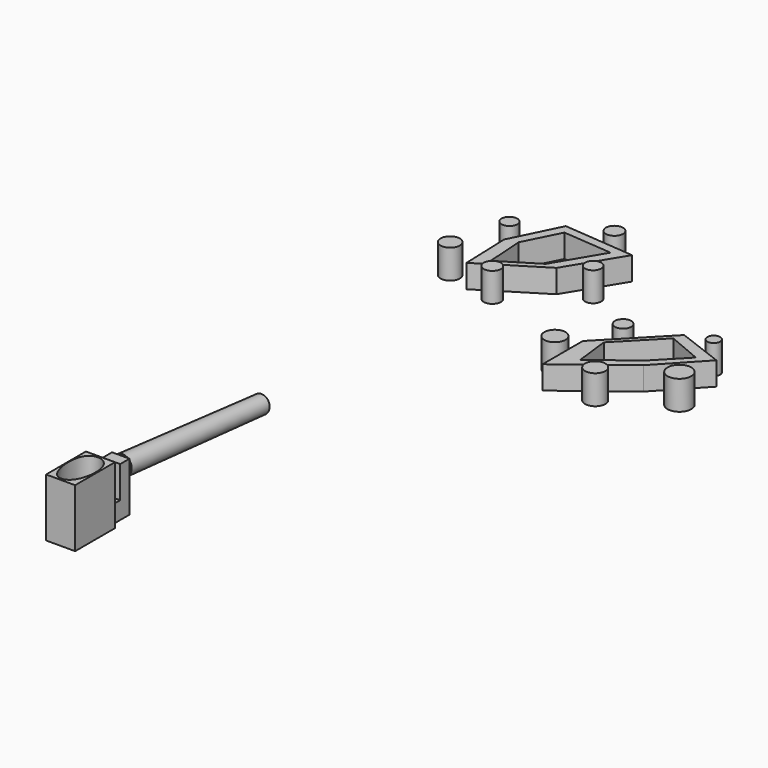
from build123d import *

# Parameters (mm, degrees)
F0_W      = 217.614380403
F0_H      = 254
F1_DEPTH  = 127
F2_W      = 76.2
F2_H      = 76.2
F3_DEPTH  = 177.8
F4_W      = 76.2
F4_H      = 215.4445648193
F5_DEPTH  = 50.8
F10_DEPTH = 254
F12_DEPTH = 127
F11_R     = 44.5061517934
F11_R_2   = 51.9630985592
F11_R_3   = 27.8101789548
F11_R_4   = 35.481424756
F11_R_5   = 46.3503959329
F11_R_6   = 37.3688939791
F11_R_7   = 35.2386836253
F11_R_8   = 37.3114185213
F11_R_9   = 34.1863192839
F11_R_10  = 42.1702188175
F13_DEPTH = 25.4


with BuildPart() as f1:
    # F0 (on Right) → F1 (new body)
    with BuildSketch(Plane.YZ):
        with Locations((11.7235407233, -7.8269019723)):
            Rectangle(F0_W, F0_H)
    extrude(amount=F1_DEPTH)

    # F2 (on Front) → F3 (join)
    with BuildSketch(Plane.XZ):
        with Locations((65.9171384811, -96.1052668333)):
            Rectangle(F2_W, F2_H)
    extrude(amount=-F3_DEPTH)

    # F4 (on face) → F5 (join)
    with BuildSketch(Plane(origin=(0, 177.8, 0), x_dir=(-1, 0, 0), z_dir=(0, 1, 0))):
        with Locations((-65.9171384811, -26.4829844236)):
            Rectangle(F4_W, F4_H)
    extrude(amount=F5_DEPTH)

    # F7 (on offset) → F8 (revolve)
    with BuildSketch(Plane.YZ.offset(68.58)):
        Polygon((990.4244733008, -30.3086977656), (231.8594604731, 42.0724451542), (228.0670851469, 0), (986.9901708875, -68.4086977656), align=None)
    revolve(axis=Axis((68.58, 611.1419668869, 5.8818736943), (0, 0.9954785058, -0.0949870753)))

    # F9 (on face) → F10 (cut, through all)
    with BuildSketch(Plane.XY.offset(119.1730980277)):
        with BuildLine():
            add(Edge.make_bspline(
                [(96.0349664092, -68.954333663), (125.4143850484, -33.1367367442), (138.4959831494, 109.9242702785), (-13.9157927457, 128.0873460879), (3.2878757636, -100.8582148726), (76.8940503244, -92.2897721685), (96.0349664092, -68.954333663)],
                knots=[0, 0, 0, 0, 0.2930288782, 0.5050224519, 0.8090894433, 1, 1, 1, 1], degree=3))
        make_face()
    extrude(amount=-F10_DEPTH, mode=Mode.SUBTRACT)


with BuildPart() as f12:
    # F11 (on Top) → F12 (new body)
    with BuildSketch(Plane.XY):
        Polygon((793.1918501854, 1844.3355725185), (793.1918501854, 1624.4624853134), (1067.018032074, 1834.3821763992), (1238.39366436, 2017.7907943726), (1035.9629392624, 2094.7933197021), align=None)
        Polygon((1049.7760996806, 1864.5756627621), (873.4776273751, 1729.4223308563), (855.417072773, 1881.2882900238), (1022.0957994461, 2052.5364875793), (1170.8430051804, 1989.7872209549), align=None, mode=Mode.SUBTRACT)
    extrude(amount=F12_DEPTH)


with BuildPart() as f12b:
    # F11 (on Top) → F12, piece 2 (new body)
    with BuildSketch(Plane.XY):
        Polygon((114.5428512245, 2262.0791196823), (122.2256664187, 2047.340631485), (385.7600558549, 2210.6747627258), (527.8993640095, 2444.818854332), (217.3940036446, 2471.3039398193), align=None)
        Polygon((338.0743651785, 2210.2088762584), (177.128970623, 2110.4576587677), (166.1901623011, 2277.3625850677), (243.5020208359, 2431.1511516571), (459.1158628464, 2413.5031700134), align=None, mode=Mode.SUBTRACT)
    extrude(amount=F12_DEPTH)


with BuildPart() as f12c:
    # F11 (on Top) → F12, piece 3 (new body)
    with BuildSketch(Plane.XY):
        with Locations((978.1569242477, 1680.8474063873)):
            Circle(F11_R)
    extrude(amount=F12_DEPTH)


with BuildPart() as f12d:
    # F11 (on Top) → F12, piece 4 (new body)
    with BuildSketch(Plane.XY):
        with Locations((1223.3334779739, 1834.3821763992)):
            Circle(F11_R_2)
    extrude(amount=F12_DEPTH)


with BuildPart() as f12e:
    # F11 (on Top) → F12, piece 5 (new body)
    with BuildSketch(Plane.XY):
        with Locations((1165.0302410126, 2095.1108932495)):
            Circle(F11_R_3)
    extrude(amount=F12_DEPTH)


with BuildPart() as f12f:
    # F11 (on Top) → F12, piece 6 (new body)
    with BuildSketch(Plane.XY):
        with Locations((851.8214225769, 1990.8726215363)):
            Circle(F11_R_4)
    extrude(amount=F12_DEPTH)


with BuildPart() as f12g:
    # F11 (on Top) → F12, piece 7 (new body)
    with BuildSketch(Plane.XY):
        with Locations((726.1397242546, 1775.5746841431)):
            Circle(F11_R_5)
    extrude(amount=F12_DEPTH)


with BuildPart() as f12h:
    # F11 (on Top) → F12, piece 8 (new body)
    with BuildSketch(Plane.XY):
        with Locations((235.5391383171, 2046.7493534088)):
            Circle(F11_R_6)
    extrude(amount=F12_DEPTH)


with BuildPart() as f12i:
    # F11 (on Top) → F12, piece 9 (new body)
    with BuildSketch(Plane.XY):
        with Locations((502.9964447021, 2263.397693634)):
            Circle(F11_R_7)
    extrude(amount=F12_DEPTH)


with BuildPart() as f12j:
    # F11 (on Top) → F12, piece 10 (new body)
    with BuildSketch(Plane.XY):
        with Locations((399.0558385849, 2509.7596645355)):
            Circle(F11_R_8)
    extrude(amount=F12_DEPTH)


with BuildPart() as f12k:
    # F11 (on Top) → F12, piece 11 (new body)
    with BuildSketch(Plane.XY):
        with Locations((75.8546367288, 2339.9140834808)):
            Circle(F11_R_9)
    extrude(amount=F12_DEPTH)


with BuildPart() as f12l:
    # F11 (on Top) → F12, piece 12 (new body)
    with BuildSketch(Plane.XY):
        with Locations((12.7520384267, 2094.7933197021)):
            Circle(F11_R_10)
    extrude(amount=F12_DEPTH)


with BuildPart() as f13_tool:
    # F12_face (on face) → F13 (new body)
    with BuildSketch(Plane(origin=(969.1354568342, 1867.9586759771, 127), x_dir=(1, 0, 0), z_dir=(0, 0, 1))):
        Polygon((97.8825752397, -33.5764995779), (269.2582075258, 149.8321183954), (66.8274824282, 226.834643725), (-175.9436066488, -23.6231034586), (-175.9436066488, -243.4961906637), align=None)
        Polygon((52.9603426119, 184.5778116022), (201.7075483461, 121.8285449778), (80.6406428464, -3.3830132151), (-95.6578294591, -138.5363451208), (-113.7183840612, 13.3296140467), align=None, mode=Mode.SUBTRACT)
        Polygon((-751.7414531896, 603.3452638422), (-854.5926056097, 394.1204437052), (-846.9097904156, 179.3819555079), (-583.3754009793, 342.7160867487), (-441.2360928247, 576.8601783548), align=None)
        Polygon((-725.6334359984, 563.19247568), (-510.0195939879, 545.5444940363), (-631.0610916557, 342.2502002813), (-792.0064862112, 242.4989827906), (-802.9452945332, 409.4039090906), align=None, mode=Mode.SUBTRACT)
    extrude(amount=-F13_DEPTH)


with BuildPart() as f12_1:
    add(f12.part)

    # F13: cut by f13_tool
    add(f13_tool.part, mode=Mode.SUBTRACT)


with BuildPart() as f12b_1:
    add(f12b.part)

    # F13: cut by f13_tool
    add(f13_tool.part, mode=Mode.SUBTRACT)


solid = Compound([f1.part, f12c.part, f12d.part, f12e.part, f12f.part, f12g.part, f12h.part, f12i.part, f12j.part, f12k.part, f12l.part, f12_1.part, f12b_1.part])
